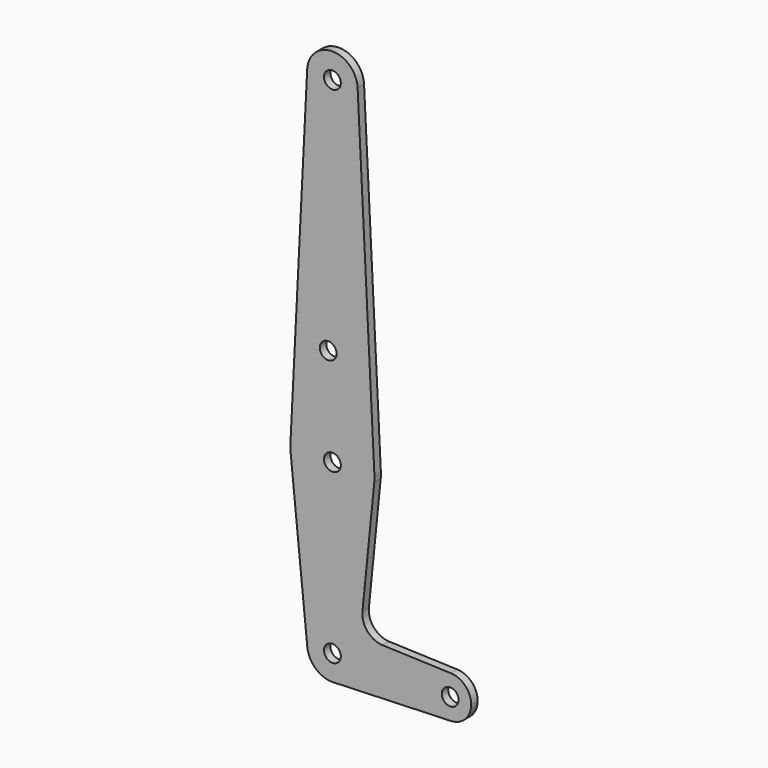
from build123d import *

# Parameters (mm, degrees)
F0_R     = 3.175
F1_DEPTH = 3.048


with BuildPart() as f1:
    # F0 (on Front) → F1 (new body)
    with BuildSketch(Plane.XZ):
        with BuildLine():
            ThreePointArc((0.340179, -9.518923), (6.854408, -6.613827), (9.525, 0))
            ThreePointArc((9.525, 0), (-0.476848, 9.513056), (-9.477255, -0.9525))
            ThreePointArc((-9.477255, -0.9525), (-6.262383, -7.17692), (0.340179, -9.518923))
        make_face()
        Circle(F0_R, mode=Mode.SUBTRACT)
        with BuildLine():
            ThreePointArc((-9.477255, -0.9525), (-0.476848, 9.513056), (9.525, 0))
            ThreePointArc((9.525, 0), (6.854408, -6.613827), (0.340179, -9.518923))
            Line((0.340179, -9.518923), (44.733482, -7.932436))
            ThreePointArc((44.733482, -7.932436), (36.5125, 0), (44.733482, 7.932436))
            Line((44.733482, 7.932436), (18.9676, 8.853234))
            ThreePointArc((18.9676, 8.853234), (13.2612, 11.571359), (11.341187, 17.593382))
            Line((11.341187, 17.593382), (15.795426, 61.9125))
            ThreePointArc((15.795426, 61.9125), (0, 47.625), (-15.795426, 61.9125))
            Line((-15.795426, 61.9125), (-9.477255, -0.9525))
        make_face()
        with BuildLine():
            ThreePointArc((-15.855144, 64.29375), (-15.87001, 63.102003), (-15.795426, 61.9125))
            ThreePointArc((-15.795426, 61.9125), (0, 47.625), (15.795426, 61.9125))
            ThreePointArc((15.795426, 61.9125), (15.855094, 62.705253), (15.875, 63.5))
            ThreePointArc((15.875, 63.5), (15.870035, 63.896999), (15.855144, 64.29375))
            ThreePointArc((15.855144, 64.29375), (0, 79.375), (-15.855144, 64.29375))
        make_face()
        with Locations((0, 63.5)):
            Circle(F0_R, mode=Mode.SUBTRACT)
        with BuildLine():
            ThreePointArc((44.733482, 7.932436), (36.5125, 0), (44.733482, -7.932436))
            ThreePointArc((44.733482, -7.932436), (50.162007, -5.511523), (52.3875, 0))
            ThreePointArc((52.3875, 0), (50.162007, 5.511523), (44.733482, 7.932436))
        make_face()
        with Locations((44.45, 0)):
            Circle(F0_R, mode=Mode.SUBTRACT)
        with BuildLine():
            Line((-9.513086, 190.97625), (-15.855144, 64.29375))
            ThreePointArc((-15.855144, 64.29375), (0, 79.375), (15.855144, 64.29375))
            Line((15.855144, 64.29375), (9.513086, 190.97625))
            ThreePointArc((9.513086, 190.97625), (9.522021, 190.738199), (9.525, 190.5))
            ThreePointArc((9.525, 190.5), (-0.238199, 180.977979), (-9.513086, 190.97625))
        make_face()
        with Locations((-1.5875, 100.0252)):
            Circle(F0_R, mode=Mode.SUBTRACT)
        with BuildLine():
            ThreePointArc((9.513086, 190.97625), (0, 200.025), (-9.513086, 190.97625))
            ThreePointArc((-9.513086, 190.97625), (-0.238199, 180.977979), (9.525, 190.5))
            ThreePointArc((9.525, 190.5), (9.522021, 190.738199), (9.513086, 190.97625))
        make_face()
        with Locations((0, 190.5)):
            Circle(F0_R, mode=Mode.SUBTRACT)
    extrude(amount=F1_DEPTH)


solid = f1.part
